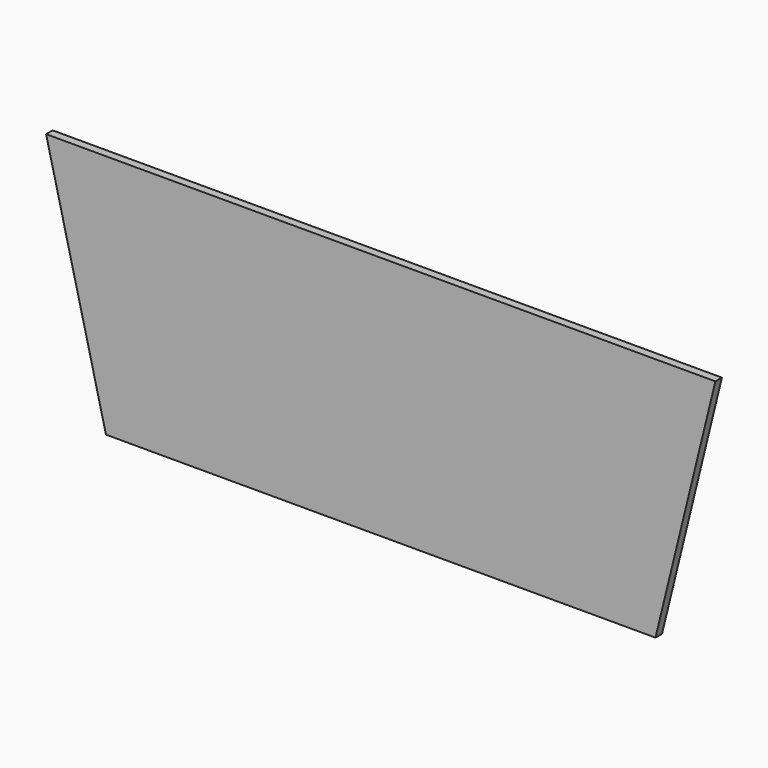
from build123d import *

# Parameters (mm, degrees)
F0_W     = 540
F0_H     = 390
F1_DEPTH = 10
F3_DEPTH = 10
F4_DEPTH = 10.001
F5_DEPTH = 10


with BuildPart() as f1:
    # F0 (on Front) → F1 (new body)
    with BuildSketch(Plane.XZ):
        Polygon((-575.5810141563, 243.9473703504), (-465.5810141563, -206.0526296496), (133.660423523, -206.0526296496), (243.660423523, 243.9473703504), (133.660423523, 243.9473703504), (-465.5810141563, 243.9473703504), align=None)
        with Locations((-166.339576477, 18.9473703504)):
            Rectangle(F0_W, F0_H, mode=Mode.SUBTRACT)
        Polygon((-495.5810141563, 43.0153865893), (-537.3643879646, 213.9473703504), (-495.5810141563, 213.9473703504), align=None, mode=Mode.SUBTRACT)
        Polygon((163.660423523, 213.9473703504), (205.4437973313, 213.9473703504), (163.660423523, 43.0153865893), align=None, mode=Mode.SUBTRACT)
    extrude(amount=F1_DEPTH)

    # F2 (on face) → F3 (join)
    with BuildSketch(Plane.XZ.offset(10)):
        Polygon((-436.339576477, 213.9473703504), (-436.339576477, -56.0526296496), (-237.4058812857, -56.0526296496), (103.660423523, -56.0526296496), (103.660423523, 213.9473703504), align=None)
        Polygon((-237.4058812857, 243.9473703504), (-575.5810141563, 243.9473703504), (-502.247680823, -56.0526296496), (-436.339576477, -56.0526296496), (-436.339576477, 213.9473703504), (103.660423523, 213.9473703504), (103.660423523, -56.0526296496), (170.3270901897, -56.0526296496), (243.660423523, 243.9473703504), align=None)
        Polygon((-495.5810141563, 213.9473703504), (-495.5810141563, 43.0153865893), (-537.3643879646, 213.9473703504), align=None, mode=Mode.SUBTRACT)
        Polygon((163.660423523, 43.0153865893), (163.660423523, 213.9473703504), (205.4437973313, 213.9473703504), align=None, mode=Mode.SUBTRACT)
        Polygon((-537.3643879646, 213.9473703504), (-495.5810141563, 43.0153865893), (-495.5810141563, 213.9473703504), align=None)
        Polygon((205.4437973313, 213.9473703504), (163.660423523, 213.9473703504), (163.660423523, 43.0153865893), align=None)
    extrude(amount=F3_DEPTH)

    # F4 (cut, through all): a face of the model
    f4_faces = [f1.faces().sort_by_distance(p)[0] for p in [
        (-469.29362865, -10, -62.9436152294),
    ]]
    extrude(f4_faces, amount=-F4_DEPTH, mode=Mode.SUBTRACT)

    # F0 (on Front) → F5 (cut)
    with BuildSketch(Plane.XZ):
        Polygon((-575.5810141563, 243.9473703504), (-465.5810141563, -206.0526296496), (133.660423523, -206.0526296496), (243.660423523, 243.9473703504), (133.660423523, 243.9473703504), (-465.5810141563, 243.9473703504), align=None)
        with Locations((-166.339576477, 18.9473703504)):
            Rectangle(F0_W, F0_H, mode=Mode.SUBTRACT)
        Polygon((-495.5810141563, 43.0153865893), (-537.3643879646, 213.9473703504), (-495.5810141563, 213.9473703504), align=None, mode=Mode.SUBTRACT)
        Polygon((163.660423523, 213.9473703504), (205.4437973313, 213.9473703504), (163.660423523, 43.0153865893), align=None, mode=Mode.SUBTRACT)
    extrude(amount=F5_DEPTH, mode=Mode.SUBTRACT)


solid = f1.part
